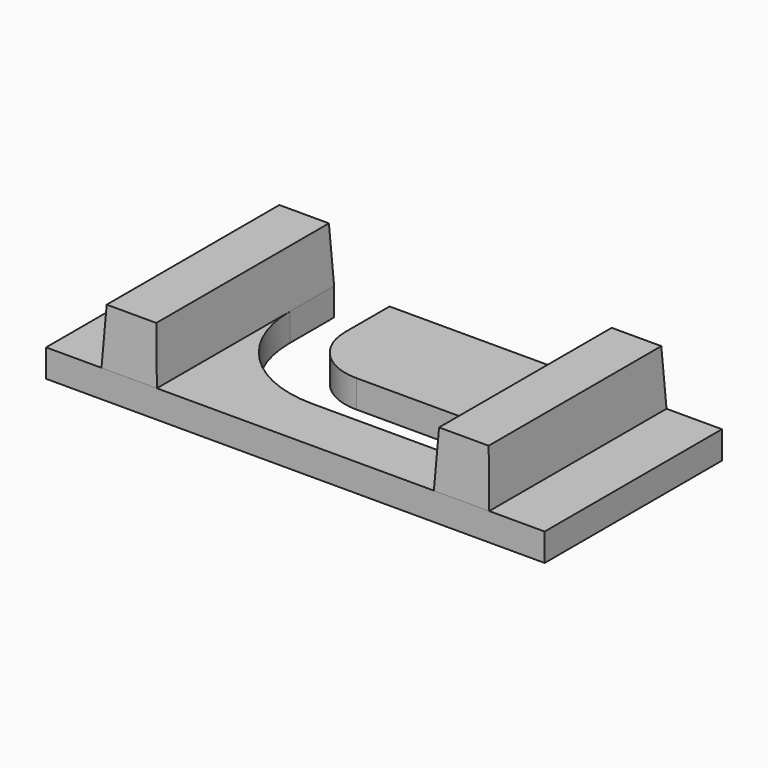
from build123d import *

# Parameters (mm, degrees)
F1_DEPTH = 3.175
F3_DEPTH = 6.35
F3_TAPER = 3


with BuildPart() as f1:
    # F0 (on Top) → F1 (new body)
    with BuildSketch(Plane.XY):
        with BuildLine():
            Line((-45.7879129469, 20.7402253661), (-45.7879129469, -4.6597746339))
            Line((-45.7879129469, -4.6597746339), (11.3620870531, -4.6597746339))
            Line((11.3620870531, -4.6597746339), (11.3620870531, 20.7402253661))
            Line((11.3620870531, 20.7402253661), (-26.7379129469, 20.7402253661))
            Line((-26.7379129469, 20.7402253661), (-26.7379129469, 14.3902253661))
            ThreePointArc((-26.7379129469, 14.3902253661), (-24.8780410075, 9.9000973056), (-20.3879129469, 8.0402253661))
            Line((-20.3879129469, 8.0402253661), (-1.3379129469, 8.0402253661))
            Line((-1.3379129469, 8.0402253661), (-1.3379129469, 1.6902253661))
            Line((-1.3379129469, 1.6902253661), (-20.3879129469, 1.6902253661))
            ThreePointArc((-20.3879129469, 1.6902253661), (-29.368169068, 5.4099692451), (-33.0879129469, 14.3902253661))
            Line((-33.0879129469, 14.3902253661), (-33.0879129469, 20.7402253661))
            Line((-33.0879129469, 20.7402253661), (-45.7879129469, 20.7402253661))
        make_face()
    extrude(amount=F1_DEPTH)

    # F2 (on face) → F3 (join)
    with BuildSketch(Plane.XY.offset(3.175)):
        Polygon((-33.0879129469, 20.7402253661), (-39.4379129469, 20.7402253661), (-39.4379129469, -4.6597746339), (-33.0879129469, -4.6597746339), (-33.0879129469, 14.3902253661), align=None)
        Polygon((-1.3379129469, 1.6902253661), (-1.3379129469, -4.6597746339), (5.0120870531, -4.6597746339), (5.0120870531, 20.7402253661), (-1.3379129469, 20.7402253661), (-1.3379129469, 8.0402253661), align=None)
    extrude(amount=F3_DEPTH, taper=F3_TAPER)


solid = f1.part
